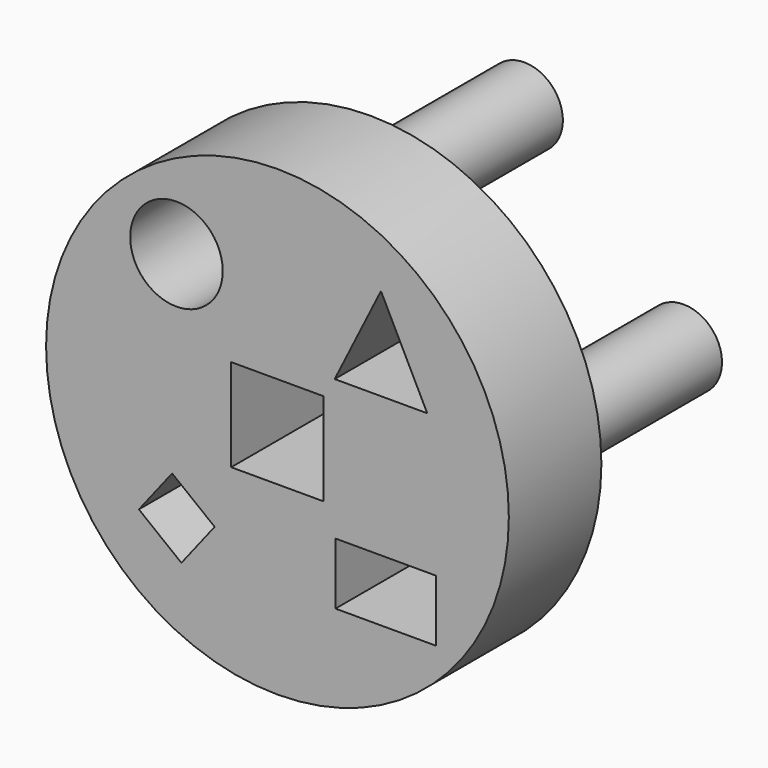
from build123d import *

# Parameters (mm, degrees)
F0_R      = 76.2
F1_DEPTH  = 38.1
F3_R      = 15.24
F4_DEPTH  = 38.1
F5_DEPTH  = 50.8
F7_DEPTH  = 38.1
F8_R      = 12.7
F9_DEPTH  = 63.5
F10_W     = 33.02
F10_H     = 20.32
F11_DEPTH = 50.8
F13_DEPTH = 38.1
F14_DEPTH = 38.1
F15_DEPTH = 38.1


with BuildPart() as f1:
    # F0 (on Front) → F1 (new body)
    with BuildSketch(Plane.XZ):
        Circle(F0_R)
    extrude(amount=F1_DEPTH)

    # F3 (on face) → F4 (cut)
    with BuildSketch(Plane.XZ.offset(38.1)):
        with Locations((-33.264, 40.697999)):
            Circle(F3_R)
    extrude(amount=-F4_DEPTH, mode=Mode.SUBTRACT)

    # F2 (on face) → F5 (cut)
    with BuildSketch(Plane.XZ.offset(38.1)):
        Polygon((34.082881, 51.879571), (18.842881, 21.399571), (49.322881, 21.399571), align=None)
    extrude(amount=-F5_DEPTH, mode=Mode.SUBTRACT)

    # F6 (on face) → F7 (cut)
    with BuildSketch(Plane.XZ.offset(38.1)):
        Polygon((15.24, 15.24), (0, 15.24), (-15.24, 15.24), (-15.24, -15.24), (0, -15.24), (15.24, -15.24), align=None)
    extrude(amount=-F7_DEPTH, mode=Mode.SUBTRACT)

    # F8 (on face) → F9 (join)
    with BuildSketch(Plane(origin=(0, 0, 0), x_dir=(-1, 0, 0), z_dir=(0, 1, 0))):
        with Locations((0, 53.110374)):
            Circle(F8_R)
        with Locations((0, -50.526001)):
            Circle(F8_R)
        with Locations((53.675998, 0)):
            Circle(F8_R)
        with Locations((-52.416001, 0)):
            Circle(F8_R)
    extrude(amount=F9_DEPTH)

    # F10 (on face) → F11 (cut)
    with BuildSketch(Plane.XZ.offset(38.1)):
        with Locations((35.620325, -34.899539)):
            Rectangle(F10_W, F10_H)
    extrude(amount=-F11_DEPTH, mode=Mode.SUBTRACT)

    # F12 (on face) → F13 (cut)
    with BuildSketch(Plane.XZ.offset(38.1)):
        Polygon((-20.681122, -34.290014), (-34.688334, -23.338923), (-45.639425, -37.346136), (-31.632213, -48.297227), align=None)
    extrude(amount=F13_DEPTH, mode=Mode.SUBTRACT)

    # F12 (on face) → F14 (cut)
    with BuildSketch(Plane.XZ.offset(38.1)):
        Polygon((-20.681122, -34.290014), (-34.688334, -23.338923), (-45.639425, -37.346136), (-31.632213, -48.297227), align=None)
    extrude(amount=-F14_DEPTH, mode=Mode.SUBTRACT)

    # F12 (on face) → F15 (cut)
    with BuildSketch(Plane.XZ.offset(38.1)):
        Polygon((-20.681122, -34.290014), (-34.688334, -23.338923), (-45.639425, -37.346136), (-31.632213, -48.297227), align=None)
    extrude(amount=-F15_DEPTH, mode=Mode.SUBTRACT)


solid = f1.part
